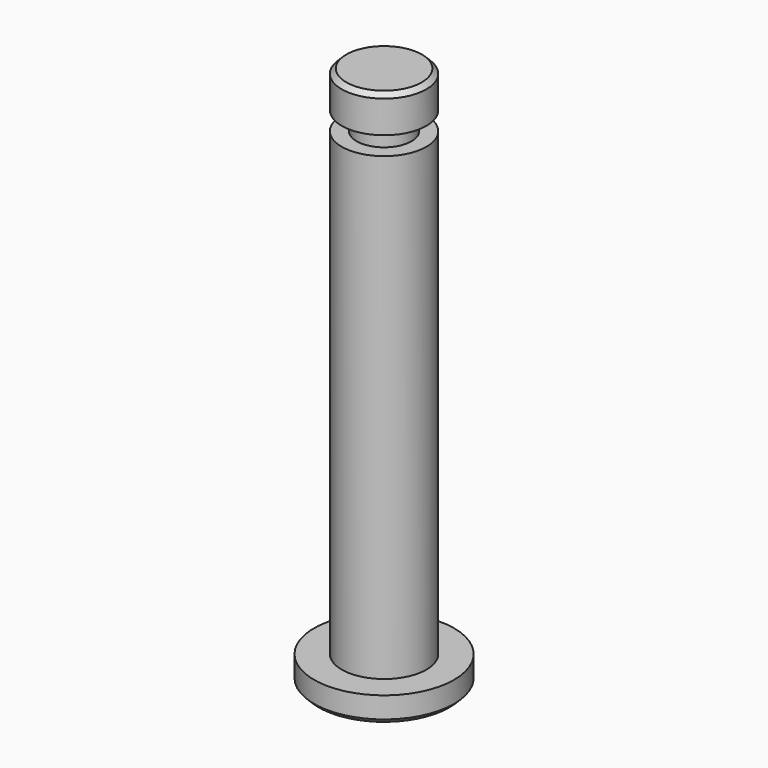
from build123d import *

# Parameters (mm, degrees)
SKETCH_R     = 3.8
PAD_DEPTH    = 1.4
SKETCH001_R  = 2.3
PAD001_DEPTH = 25
SKETCH002_R  = 1.491152
PAD002_DEPTH = 1
SKETCH003_R  = 2.3
PAD003_DEPTH = 2
CHAMFER_SIZE = 0.25


with BuildPart() as part:
    # Sketch → Pad (new body)
    with BuildSketch(Plane.XY):
        Circle(SKETCH_R)
    extrude(amount=PAD_DEPTH)

    # Sketch001 (on Face3 of Pad) → Pad001 (join)
    with BuildSketch(Plane.XY.offset(1.4)):
        Circle(SKETCH001_R)
    extrude(amount=PAD001_DEPTH)

    # Sketch002 (on Face5 of Pad001) → Pad002 (join)
    with BuildSketch(Plane.XY.offset(26.4)):
        Circle(SKETCH002_R)
    extrude(amount=PAD002_DEPTH)

    # Sketch003 (on Face7 of Pad002) → Pad003 (join)
    with BuildSketch(Plane.XY.offset(27.4)):
        Circle(SKETCH003_R)
    extrude(amount=PAD003_DEPTH)

    # Chamfer
    chamfer_edges = [part.edges().sort_by_distance(p)[0] for p in [
        (-2.3, 0, 29.4),
        (-3.8, 0, 0),
    ]]
    chamfer(chamfer_edges, length=CHAMFER_SIZE)


solid = part.part
